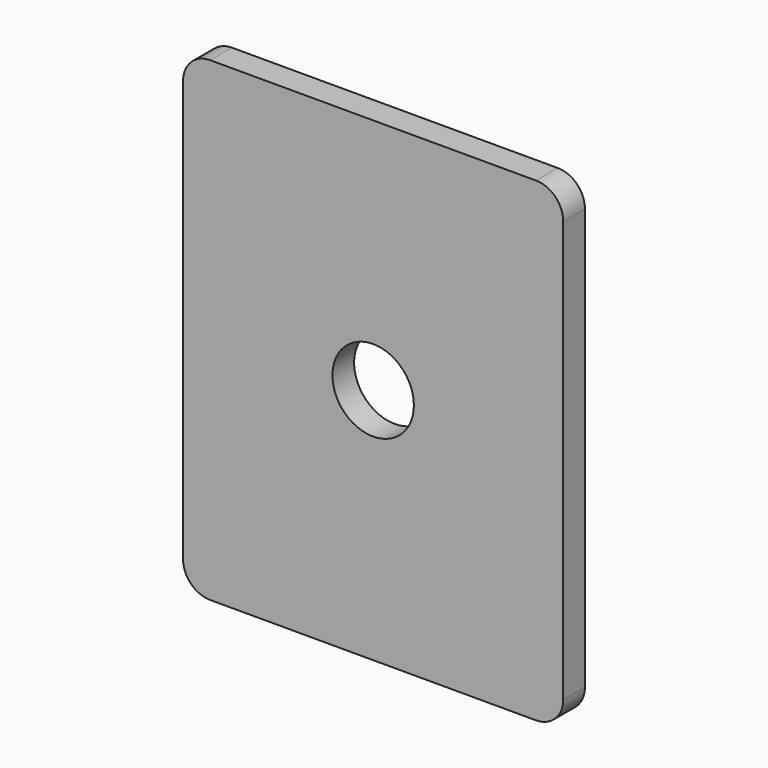
from build123d import *

# Parameters (mm, degrees)
F0_R     = 3
F1_DEPTH = 2
F2_ANGLE = 90


with BuildPart() as f1:
    # F0 (on Top) → F1 (new body)
    with BuildSketch(Plane.XY):
        with BuildLine():
            Line((-12, -17.5), (12, -17.5))
            ThreePointArc((12, -17.5), (13.414214, -16.914214), (14, -15.5))
            Line((14, -15.5), (14, 15.5))
            ThreePointArc((14, 15.5), (13.414214, 16.914214), (12, 17.5))
            Line((12, 17.5), (-12, 17.5))
            ThreePointArc((-12, 17.5), (-13.414214, 16.914214), (-14, 15.5))
            Line((-14, 15.5), (-14, -15.5))
            ThreePointArc((-14, -15.5), (-13.414214, -16.914214), (-12, -17.5))
        make_face()
        Circle(F0_R, mode=Mode.SUBTRACT)
    extrude(amount=F1_DEPTH)


with BuildPart() as f1_1:
    # F2: moved
    add(f1.part.rotate(Axis((0, 17.5, 2), (-1, 0, 0)), F2_ANGLE))


solid = f1_1.part
